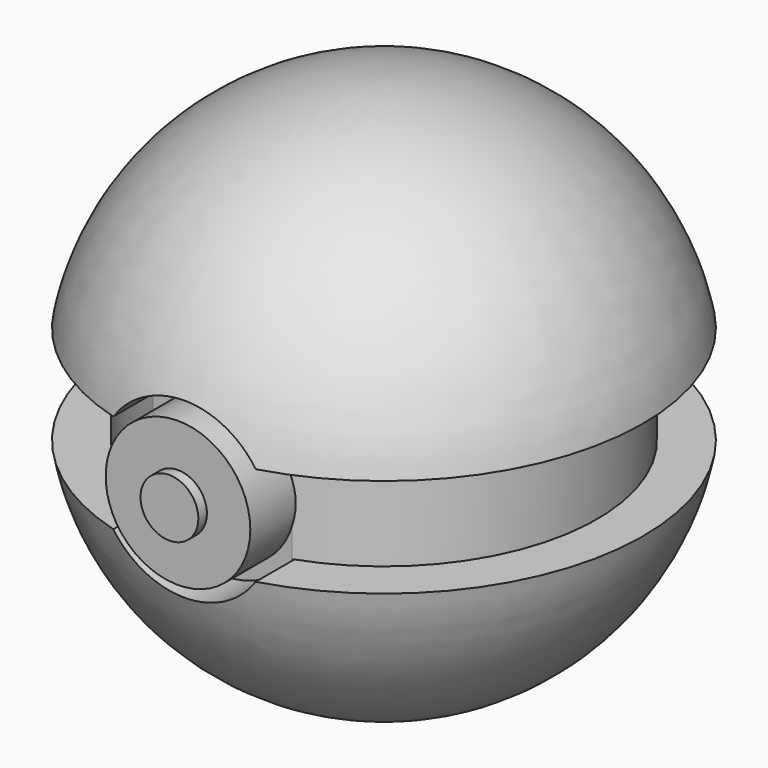
from build123d import *

# Parameters (mm, degrees)
F3_R     = 7.62
F4_DEPTH = 25.4
F5_DEPTH = 4.9022
F6_R     = 6.35
F7_DEPTH = 6.0706
F8_R     = 2.54
F9_DEPTH = 0.9398


with BuildPart() as f1:
    # F0 (on Front) → F1 (revolve)
    with BuildSketch(Plane.XZ):
        with BuildLine():
            Line((-18.727748, -4.356458), (-22.766963, -4.356458))
            ThreePointArc((-22.766963, -4.356458), (-14.770419, -17.864715), (0, -23.18002))
            Line((0, -23.18002), (0, 23.18002))
            ThreePointArc((0, 23.18002), (-14.773376, 17.862269), (-22.768404, 4.348918))
            Line((-22.768404, 4.348918), (-18.727748, 4.348918))
            Line((-18.727748, 4.348918), (-18.727748, -4.356458))
        make_face()
    revolve(axis=Axis((0, 0, 0), (0, 0, -1)))

    # F3 (on offset) → F4 (cut)
    with BuildSketch(Plane.XZ.offset(22.606)):
        Circle(F3_R)
    extrude(amount=F4_DEPTH, mode=Mode.SUBTRACT)

    # F3 (on offset) → F5 (cut)
    with BuildSketch(Plane.XZ.offset(22.606)):
        Circle(F3_R)
    extrude(amount=-F5_DEPTH, mode=Mode.SUBTRACT)

    # F6 (on offset) → F7 (join)
    with BuildSketch(Plane.XZ.offset(22.606)):
        Circle(F6_R)
    extrude(amount=-F7_DEPTH)

    # F8 (on offset) → F9 (join)
    with BuildSketch(Plane.XZ.offset(22.606)):
        Circle(F8_R)
    extrude(amount=F9_DEPTH)


solid = f1.part
